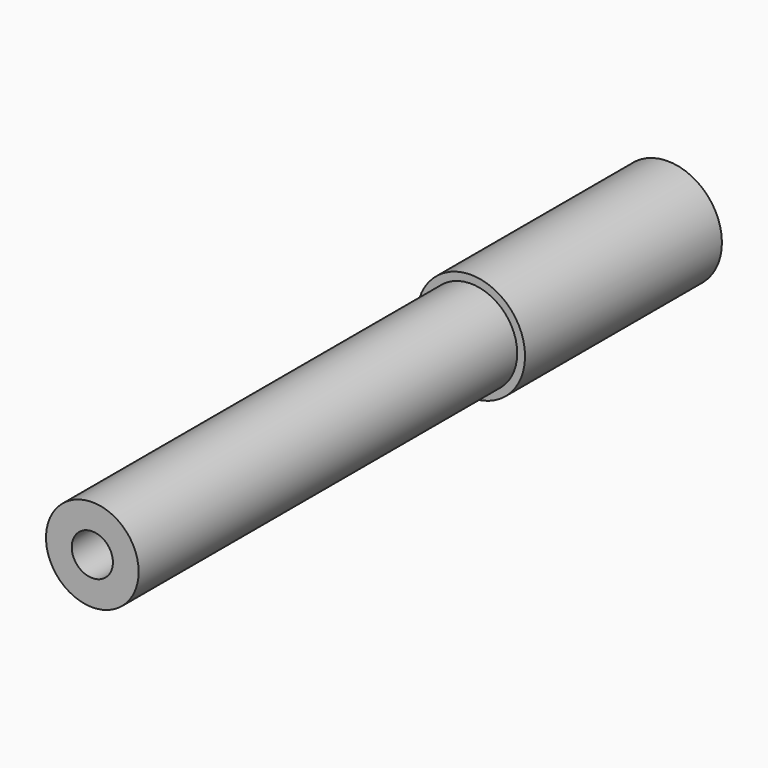
from build123d import *

# Parameters (mm, degrees)
F0_R     = 18.128616
F0_R_2   = 8.057671
F1_DEPTH = 185.196275
F2_R     = 21.194116
F3_DEPTH = 96.30543


with BuildPart() as f1:
    # F0 (on Front) → F1 (new body)
    with BuildSketch(Plane.XZ):
        Circle(F0_R)
        Circle(F0_R_2, mode=Mode.SUBTRACT)
    extrude(amount=F1_DEPTH)

    # F2 (on Front) → F3 (join)
    with BuildSketch(Plane.XZ):
        Circle(F2_R)
    extrude(amount=-F3_DEPTH)


solid = f1.part
